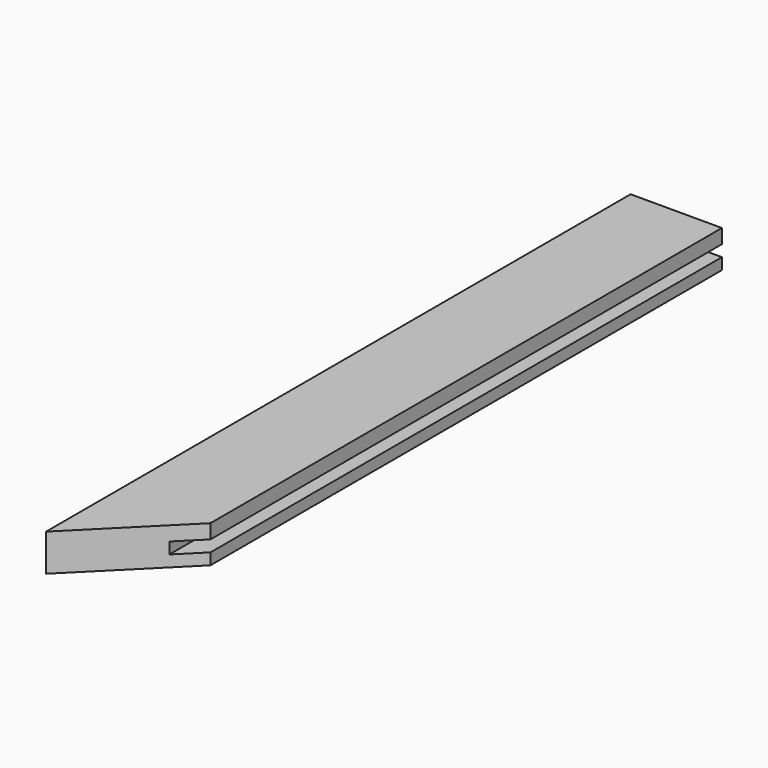
from build123d import *

# Parameters (mm, degrees)
F1_DEPTH = 20.6375
F2_W     = 12.7
F2_H     = 6.35
F3_DEPTH = 406.401


with BuildPart() as f1:
    # F0 (on Top) → F1 (new body)
    with BuildSketch(Plane.XY):
        Polygon((50.8, 406.4), (0, 406.4), (0, 0), (50.8, 50.8), align=None)
    extrude(amount=F1_DEPTH)

    # F2 (on face) → F3 (cut, through all)
    with BuildSketch(Plane(origin=(0, 406.4, 0), x_dir=(-1, 0, 0), z_dir=(0, 1, 0))):
        with Locations((-44.45, 9.525)):
            Rectangle(F2_W, F2_H)
    extrude(amount=-F3_DEPTH, mode=Mode.SUBTRACT)


solid = f1.part
